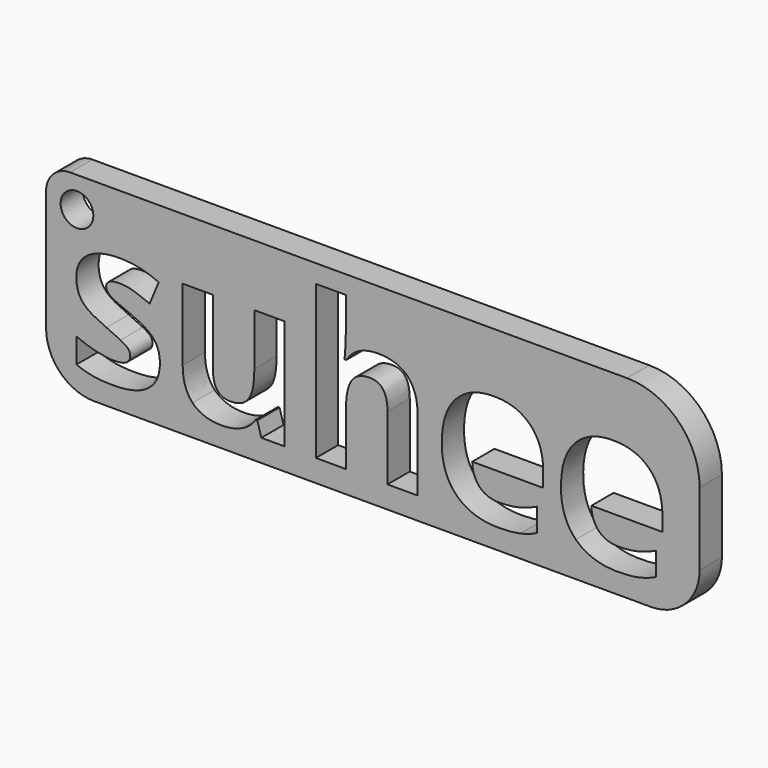
from build123d import *

# Parameters (mm, degrees)
F0_R     = 1.3521453892
F1_DEPTH = 2.3


with BuildPart() as f1:
    # F0 (on Front) → F1 (new body)
    with BuildSketch(Plane.XZ):
        with BuildLine():
            Line((-23, -8), (23, -8))
            ThreePointArc((23, -8), (25.8284271247, -6.8284271247), (27, -4))
            Line((27, -4), (27, 2))
            ThreePointArc((27, 2), (25.2426406871, 6.2426406871), (21, 8))
            Line((21, 8), (-25, 8))
            ThreePointArc((-25, 8), (-26.4142135624, 7.4142135624), (-27, 6))
            Line((-27, 6), (-27, -4))
            ThreePointArc((-27, -4), (-25.8284271247, -6.8284271247), (-23, -8))
        make_face()
        with BuildLine():
            add(Edge.make_bspline(
                [(-17.8333333333, -2.3022460452), (-17.5963541667, -2.7905272952), (-17.5963541667, -3.4650064619)],
                knots=[0, 0, 0, 1, 1, 1], degree=2))
            add(Edge.make_bspline(
                [(-17.5963541667, -3.4650064619), (-17.5963541667, -4.8660481285), (-18.5690104167, -5.5991210452)],
                knots=[0, 0, 0, 1, 1, 1], degree=2))
            add(Edge.make_bspline(
                [(-18.5690104167, -5.5991210452), (-19.5416666667, -6.3321939619), (-21.4791666667, -6.3321939619)],
                knots=[0, 0, 0, 1, 1, 1], degree=2))
            add(Edge.make_bspline(
                [(-21.4791666667, -6.3321939619), (-22.4713541667, -6.3321939619), (-23.171875, -6.1967772952)],
                knots=[0, 0, 0, 1, 1, 1], degree=2))
            add(Edge.make_bspline(
                [(-23.171875, -6.1967772952), (-23.8723958333, -6.0613606285), (-24.4817708333, -5.8009439619)],
                knots=[0, 0, 0, 1, 1, 1], degree=2))
            Line((-24.4817708333, -5.8009439619), (-24.4817708333, -3.7514647952))
            add(Edge.make_bspline(
                [(-24.4817708333, -3.7514647952), (-23.7916666667, -4.0769856285), (-22.9244791667, -4.2970377119)],
                knots=[0, 0, 0, 1, 1, 1], degree=2))
            add(Edge.make_bspline(
                [(-22.9244791667, -4.2970377119), (-22.0572916667, -4.5170897952), (-21.3984375, -4.5170897952)],
                knots=[0, 0, 0, 1, 1, 1], degree=2))
            add(Edge.make_bspline(
                [(-21.3984375, -4.5170897952), (-20.046875, -4.5170897952), (-20.046875, -3.7358397952)],
                knots=[0, 0, 0, 1, 1, 1], degree=2))
            add(Edge.make_bspline(
                [(-20.046875, -3.7358397952), (-20.046875, -3.4415689619), (-20.2265625, -3.2579752119)],
                knots=[0, 0, 0, 1, 1, 1], degree=2))
            add(Edge.make_bspline(
                [(-20.2265625, -3.2579752119), (-20.40625, -3.0743814619), (-20.8450520833, -2.8426106285)],
                knots=[0, 0, 0, 1, 1, 1], degree=2))
            add(Edge.make_bspline(
                [(-20.8450520833, -2.8426106285), (-21.2838541667, -2.6108397952), (-22.015625, -2.3035481285)],
                knots=[0, 0, 0, 1, 1, 1], degree=2))
            add(Edge.make_bspline(
                [(-22.015625, -2.3035481285), (-23.0651041667, -1.8634439619), (-23.55859375, -1.4884439619)],
                knots=[0, 0, 0, 1, 1, 1], degree=2))
            add(Edge.make_bspline(
                [(-23.55859375, -1.4884439619), (-24.0520833333, -1.1134439619), (-24.2747395833, -0.6290689619)],
                knots=[0, 0, 0, 1, 1, 1], degree=2))
            add(Edge.make_bspline(
                [(-24.2747395833, -0.6290689619), (-24.4973958333, -0.1446939619), (-24.4973958333, 0.5610352048)],
                knots=[0, 0, 0, 1, 1, 1], degree=2))
            add(Edge.make_bspline(
                [(-24.4973958333, 0.5610352048), (-24.4973958333, 1.7745768715), (-23.55859375, 2.4373372881)],
                knots=[0, 0, 0, 1, 1, 1], degree=2))
            add(Edge.make_bspline(
                [(-23.55859375, 2.4373372881), (-22.6197916667, 3.1000977048), (-20.8932291667, 3.1000977048)],
                knots=[0, 0, 0, 1, 1, 1], degree=2))
            add(Edge.make_bspline(
                [(-20.8932291667, 3.1000977048), (-19.25, 3.1000977048), (-17.6953125, 2.3839518715)],
                knots=[0, 0, 0, 1, 1, 1], degree=2))
            Line((-17.6953125, 2.3839518715), (-18.4427083333, 0.5948893715))
            add(Edge.make_bspline(
                [(-18.4427083333, 0.5948893715), (-19.1276041667, 0.8865560381), (-19.7213541667, 1.0740560381)],
                knots=[0, 0, 0, 1, 1, 1], degree=2))
            add(Edge.make_bspline(
                [(-19.7213541667, 1.0740560381), (-20.3151041667, 1.2615560381), (-20.9348958333, 1.2615560381)],
                knots=[0, 0, 0, 1, 1, 1], degree=2))
            add(Edge.make_bspline(
                [(-20.9348958333, 1.2615560381), (-22.0338541667, 1.2615560381), (-22.0338541667, 0.6678060381)],
                knots=[0, 0, 0, 1, 1, 1], degree=2))
            add(Edge.make_bspline(
                [(-22.0338541667, 0.6678060381), (-22.0338541667, 0.3344727048), (-21.6796875, 0.0896810381)],
                knots=[0, 0, 0, 1, 1, 1], degree=2))
            add(Edge.make_bspline(
                [(-21.6796875, 0.0896810381), (-21.3255208333, -0.1551106285), (-20.1276041667, -0.6342772952)],
                knots=[0, 0, 0, 1, 1, 1], degree=2))
            add(Edge.make_bspline(
                [(-20.1276041667, -0.6342772952), (-19.0625, -1.0665689619), (-18.56640625, -1.4402668785)],
                knots=[0, 0, 0, 1, 1, 1], degree=2))
            add(Edge.make_bspline(
                [(-18.56640625, -1.4402668785), (-18.0703125, -1.8139647952), (-17.8333333333, -2.3022460452)],
                knots=[0, 0, 0, 1, 1, 1], degree=2))
        make_face(mode=Mode.SUBTRACT)
        with BuildLine():
            Line((-7.3125, -6.1681314619), (-9.2161458333, -6.1681314619))
            Line((-9.2161458333, -6.1681314619), (-9.5494791667, -5.0040689619))
            Line((-9.5494791667, -5.0040689619), (-9.6796875, -5.0040689619))
            add(Edge.make_bspline(
                [(-9.6796875, -5.0040689619), (-10.078125, -5.6394856285), (-10.8111979167, -5.9858397952)],
                knots=[0, 0, 0, 1, 1, 1], degree=2))
            add(Edge.make_bspline(
                [(-10.8111979167, -5.9858397952), (-11.5442708333, -6.3321939619), (-12.4791666667, -6.3321939619)],
                knots=[0, 0, 0, 1, 1, 1], degree=2))
            add(Edge.make_bspline(
                [(-12.4791666667, -6.3321939619), (-14.0833333333, -6.3321939619), (-14.8971354167, -5.4728189619)],
                knots=[0, 0, 0, 1, 1, 1], degree=2))
            add(Edge.make_bspline(
                [(-14.8971354167, -5.4728189619), (-15.7109375, -4.6134439619), (-15.7109375, -3.0014647952)],
                knots=[0, 0, 0, 1, 1, 1], degree=2))
            Line((-15.7109375, -3.0014647952), (-15.7109375, 2.9308268715))
            Line((-15.7109375, 2.9308268715), (-13.2291666667, 2.9308268715))
            Line((-13.2291666667, 2.9308268715), (-13.2291666667, -2.3842772952))
            add(Edge.make_bspline(
                [(-13.2291666667, -2.3842772952), (-13.2291666667, -3.3686522952), (-12.87890625, -3.8608397952)],
                knots=[0, 0, 0, 1, 1, 1], degree=2))
            add(Edge.make_bspline(
                [(-12.87890625, -3.8608397952), (-12.5286458333, -4.3530272952), (-11.7630208333, -4.3530272952)],
                knots=[0, 0, 0, 1, 1, 1], degree=2))
            add(Edge.make_bspline(
                [(-11.7630208333, -4.3530272952), (-10.7213541667, -4.3530272952), (-10.2578125, -3.6577147952)],
                knots=[0, 0, 0, 1, 1, 1], degree=2))
            add(Edge.make_bspline(
                [(-10.2578125, -3.6577147952), (-9.7942708333, -2.9624022952), (-9.7942708333, -1.3504231285)],
                knots=[0, 0, 0, 1, 1, 1], degree=2))
            Line((-9.7942708333, -1.3504231285), (-9.7942708333, 2.9308268715))
            Line((-9.7942708333, 2.9308268715), (-7.3125, 2.9308268715))
            Line((-7.3125, 2.9308268715), (-7.3125, -6.1681314619))
        make_face(mode=Mode.SUBTRACT)
        with BuildLine():
            add(Edge.make_bspline(
                [(12.1692708333, -6.1733397952), (11.4296875, -6.3321939619), (10.3619791667, -6.3321939619)],
                knots=[0, 0, 0, 1, 1, 1], degree=2))
            add(Edge.make_bspline(
                [(10.3619791667, -6.3321939619), (8.1666666667, -6.3321939619), (6.9296875, -5.1186522952)],
                knots=[0, 0, 0, 1, 1, 1], degree=2))
            add(Edge.make_bspline(
                [(6.9296875, -5.1186522952), (5.6927083333, -3.9051106285), (5.6927083333, -1.6837564619)],
                knots=[0, 0, 0, 1, 1, 1], degree=2))
            add(Edge.make_bspline(
                [(5.6927083333, -1.6837564619), (5.6927083333, 0.6027018715), (6.8359375, 1.8513997881)],
                knots=[0, 0, 0, 1, 1, 1], degree=2))
            add(Edge.make_bspline(
                [(6.8359375, 1.8513997881), (7.9791666667, 3.1000977048), (9.9973958333, 3.1000977048)],
                knots=[0, 0, 0, 1, 1, 1], degree=2))
            add(Edge.make_bspline(
                [(9.9973958333, 3.1000977048), (11.9244791667, 3.1000977048), (12.9986979167, 2.0024414548)],
                knots=[0, 0, 0, 1, 1, 1], degree=2))
            add(Edge.make_bspline(
                [(12.9986979167, 2.0024414548), (14.0729166667, 0.9047852048), (14.0729166667, -1.0327147952)],
                knots=[0, 0, 0, 1, 1, 1], degree=2))
            Line((14.0729166667, -1.0327147952), (14.0729166667, -2.2384439619))
            Line((14.0729166667, -2.2384439619), (8.2057291667, -2.2384439619))
            add(Edge.make_bspline(
                [(8.2057291667, -2.2384439619), (8.2473958333, -3.2957356285), (8.8333333333, -3.8894856285)],
                knots=[0, 0, 0, 1, 1, 1], degree=2))
            add(Edge.make_bspline(
                [(8.8333333333, -3.8894856285), (9.4192708333, -4.4832356285), (10.4765625, -4.4832356285)],
                knots=[0, 0, 0, 1, 1, 1], degree=2))
            add(Edge.make_bspline(
                [(10.4765625, -4.4832356285), (11.2994791667, -4.4832356285), (12.03125, -4.3126627119)],
                knots=[0, 0, 0, 1, 1, 1], degree=2))
            add(Edge.make_bspline(
                [(12.03125, -4.3126627119), (12.7630208333, -4.1420897952), (13.5598958333, -3.7670897952)],
                knots=[0, 0, 0, 1, 1, 1], degree=2))
            Line((13.5598958333, -3.7670897952), (13.5598958333, -5.6889647952))
            add(Edge.make_bspline(
                [(13.5598958333, -5.6889647952), (12.9088541667, -6.0144856285), (12.1692708333, -6.1733397952)],
                knots=[0, 0, 0, 1, 1, 1], degree=2))
        make_face(mode=Mode.SUBTRACT)
        with BuildLine():
            add(Edge.make_bspline(
                [(22.015625, -6.1733397952), (21.2760416667, -6.3321939619), (20.2083333333, -6.3321939619)],
                knots=[0, 0, 0, 1, 1, 1], degree=2))
            add(Edge.make_bspline(
                [(20.2083333333, -6.3321939619), (18.0130208333, -6.3321939619), (16.7760416667, -5.1186522952)],
                knots=[0, 0, 0, 1, 1, 1], degree=2))
            add(Edge.make_bspline(
                [(16.7760416667, -5.1186522952), (15.5390625, -3.9051106285), (15.5390625, -1.6837564619)],
                knots=[0, 0, 0, 1, 1, 1], degree=2))
            add(Edge.make_bspline(
                [(15.5390625, -1.6837564619), (15.5390625, 0.6027018715), (16.6822916667, 1.8513997881)],
                knots=[0, 0, 0, 1, 1, 1], degree=2))
            add(Edge.make_bspline(
                [(16.6822916667, 1.8513997881), (17.8255208333, 3.1000977048), (19.84375, 3.1000977048)],
                knots=[0, 0, 0, 1, 1, 1], degree=2))
            add(Edge.make_bspline(
                [(19.84375, 3.1000977048), (21.7708333333, 3.1000977048), (22.8450520833, 2.0024414548)],
                knots=[0, 0, 0, 1, 1, 1], degree=2))
            add(Edge.make_bspline(
                [(22.8450520833, 2.0024414548), (23.9192708333, 0.9047852048), (23.9192708333, -1.0327147952)],
                knots=[0, 0, 0, 1, 1, 1], degree=2))
            Line((23.9192708333, -1.0327147952), (23.9192708333, -2.2384439619))
            Line((23.9192708333, -2.2384439619), (18.0520833333, -2.2384439619))
            add(Edge.make_bspline(
                [(18.0520833333, -2.2384439619), (18.09375, -3.2957356285), (18.6796875, -3.8894856285)],
                knots=[0, 0, 0, 1, 1, 1], degree=2))
            add(Edge.make_bspline(
                [(18.6796875, -3.8894856285), (19.265625, -4.4832356285), (20.3229166667, -4.4832356285)],
                knots=[0, 0, 0, 1, 1, 1], degree=2))
            add(Edge.make_bspline(
                [(20.3229166667, -4.4832356285), (21.1458333333, -4.4832356285), (21.8776041667, -4.3126627119)],
                knots=[0, 0, 0, 1, 1, 1], degree=2))
            add(Edge.make_bspline(
                [(21.8776041667, -4.3126627119), (22.609375, -4.1420897952), (23.40625, -3.7670897952)],
                knots=[0, 0, 0, 1, 1, 1], degree=2))
            Line((23.40625, -3.7670897952), (23.40625, -5.6889647952))
            add(Edge.make_bspline(
                [(23.40625, -5.6889647952), (22.7552083333, -6.0144856285), (22.015625, -6.1733397952)],
                knots=[0, 0, 0, 1, 1, 1], degree=2))
        make_face(mode=Mode.SUBTRACT)
        with BuildLine():
            Line((3.6901041667, -0.2358397952), (3.6901041667, -6.1681314619))
            Line((3.6901041667, -6.1681314619), (1.2083333333, -6.1681314619))
            Line((1.2083333333, -6.1681314619), (1.2083333333, -0.8530272952))
            add(Edge.make_bspline(
                [(1.2083333333, -0.8530272952), (1.2083333333, 1.1157227048), (-0.2578125, 1.1157227048)],
                knots=[0, 0, 0, 1, 1, 1], degree=2))
            add(Edge.make_bspline(
                [(-0.2578125, 1.1157227048), (-1.2994791667, 1.1157227048), (-1.7630208333, 0.4073893715)],
                knots=[0, 0, 0, 1, 1, 1], degree=2))
            add(Edge.make_bspline(
                [(-1.7630208333, 0.4073893715), (-2.2265625, -0.3009439619), (-2.2265625, -1.8868814619)],
                knots=[0, 0, 0, 1, 1, 1], degree=2))
            Line((-2.2265625, -1.8868814619), (-2.2265625, -6.1681314619))
            Line((-2.2265625, -6.1681314619), (-4.7083333333, -6.1681314619))
            Line((-4.7083333333, -6.1681314619), (-4.7083333333, 6.4959310381))
            Line((-4.7083333333, 6.4959310381), (-2.2265625, 6.4959310381))
            Line((-2.2265625, 6.4959310381), (-2.2265625, 3.9152018715))
            add(Edge.make_bspline(
                [(-2.2265625, 3.9152018715), (-2.2265625, 3.6131185381), (-2.2838541667, 2.4985352048)],
                knots=[0, 0, 0, 1, 1, 1], degree=2))
            Line((-2.2838541667, 2.4985352048), (-2.3411458333, 1.7667643715))
            Line((-2.3411458333, 1.7667643715), (-2.2109375, 1.7667643715))
            add(Edge.make_bspline(
                [(-2.2109375, 1.7667643715), (-1.3802083333, 3.1000977048), (0.4270833333, 3.1000977048)],
                knots=[0, 0, 0, 1, 1, 1], degree=2))
            add(Edge.make_bspline(
                [(0.4270833333, 3.1000977048), (2.03125, 3.1000977048), (2.8606770833, 2.2381185381)],
                knots=[0, 0, 0, 1, 1, 1], degree=2))
            add(Edge.make_bspline(
                [(2.8606770833, 2.2381185381), (3.6901041667, 1.3761393715), (3.6901041667, -0.2358397952)],
                knots=[0, 0, 0, 1, 1, 1], degree=2))
        make_face(mode=Mode.SUBTRACT)
        with Locations((-24.4483277202, 5.4773832671)):
            Circle(F0_R, mode=Mode.SUBTRACT)
    extrude(amount=F1_DEPTH)


solid = f1.part
